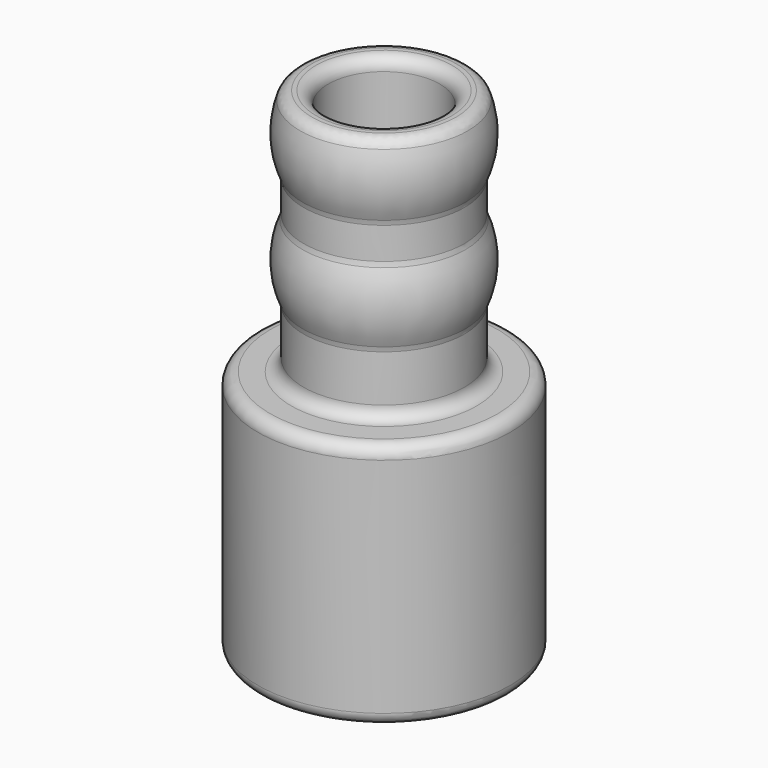
from build123d import *

# Parameters (mm, degrees)
F0_R     = 3.25
F0_R_2   = 2.25
F1_DEPTH = 20
F0_R_3   = 5.1
F2_DEPTH = 10
F5_R     = 0.5


with BuildPart() as f1:
    # F0 (on Top) → F1 (new body)
    with BuildSketch(Plane.XY):
        Circle(F0_R)
        Circle(F0_R_2, mode=Mode.SUBTRACT)
    extrude(amount=F1_DEPTH)

    # F0 (on Top) → F2 (join)
    with BuildSketch(Plane.XY):
        Circle(F0_R_3)
        Circle(F0_R, mode=Mode.SUBTRACT)
    extrude(amount=F2_DEPTH)

    # F3 (on Front) → F4 (revolve)
    with BuildSketch(Plane.XZ):
        with BuildLine():
            Line((3.25, 20), (3.25, 17))
            ThreePointArc((3.25, 17), (3.587722, 18.5), (3.25, 20))
        make_face()
        with BuildLine():
            Line((3.25, 15.5), (3.25, 12.5))
            ThreePointArc((3.25, 12.5), (3.587722, 14), (3.25, 15.5))
        make_face()
    revolve(axis=Axis((0, 0, 14.141115), (0, 0, 1)))

    # F5
    f5_edges = [f1.edges().sort_by_distance(p)[0] for p in [
        (-5.1, 0, 10),
        (-3.25, 0, 10),
        (3.587722, 0, 18.5),
        (-3.25, 0, 20),
        (-3.25, 0, 17),
        (-2.25, 0, 20),
        (2.25, 0, 10),
        (-2.25, 0, 0),
        (-3.25, 0, 12.5),
        (-3.25, 0, 15.5),
        (3.587722, 0, 14),
        (5.1, 0, 5),
        (-5.1, 0, 0),
        (3.25, 0, 11.25),
    ]]
    fillet(f5_edges, radius=F5_R)


solid = f1.part
